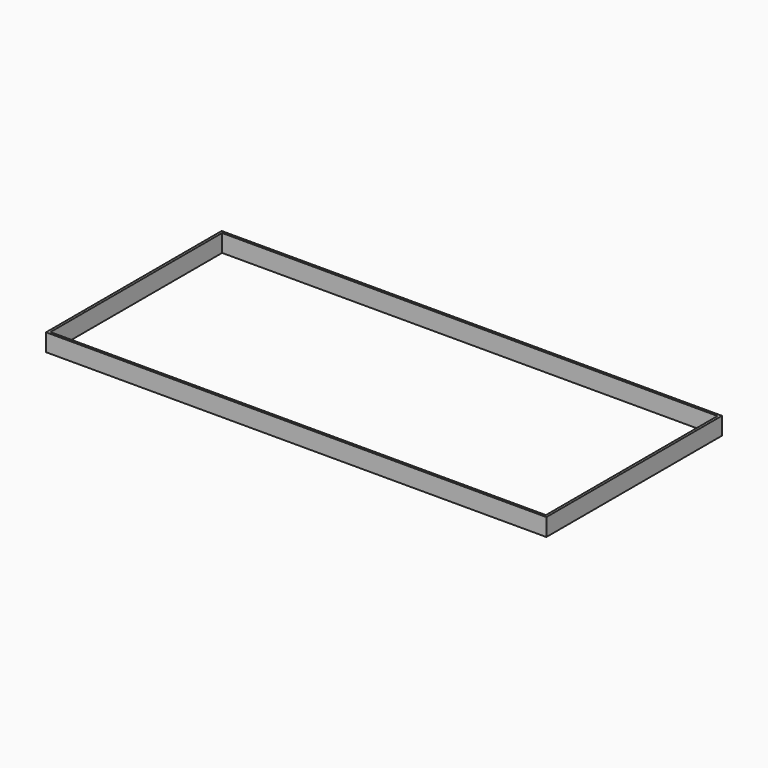
from build123d import *

# Parameters (mm, degrees)
F0_W     = 11400
F0_H     = 5000
F1_DEPTH = 400


with BuildPart() as f1:
    # F0 (on Top) → F1 (new body)
    with BuildSketch(Plane.XY):
        with Locations((5700, -2500)):
            Rectangle(F0_W, F0_H)
        Polygon((55, -4945), (55, -55), (4605.61245, -55), (4795.61245, -55), (11345, -55), (11345, -4945), (4795.61245, -4945), (4605.61245, -4945), align=None, mode=Mode.SUBTRACT)
    extrude(amount=F1_DEPTH)


solid = f1.part
